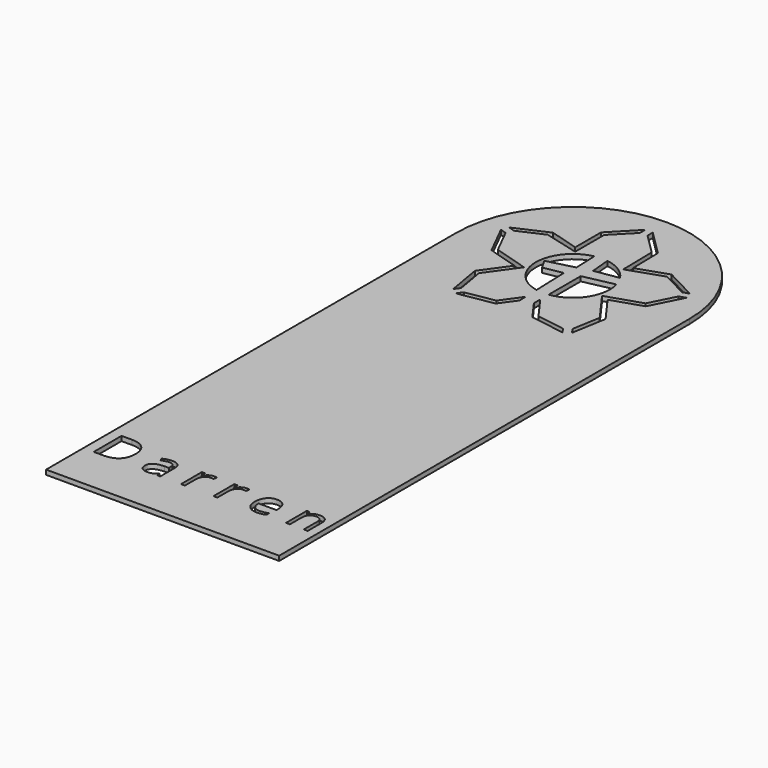
from build123d import *

# Parameters (mm, degrees)
F1_DEPTH = 1


with BuildPart() as f1:
    # F0 (on Top) → F1 (new body)
    with BuildSketch(Plane.XY):
        with BuildLine():
            Line((1.4284653794, -97.4952458707), (1.4284653794, 12.5047541293))
            ThreePointArc((1.4284653794, 12.5047541293), (-23.5715346206, 37.5047541293), (-48.5715346206, 12.5047541293))
            Line((-48.5715346206, 12.5047541293), (-48.5715346206, -97.4952458707))
            Line((-48.5715346206, -97.4952458707), (1.4284653794, -97.4952458707))
        make_face()
        with BuildLine():
            add(Edge.make_bspline(
                [(-41.3622079116, -81.0064125659), (-40.3991172829, -81.9695031946), (-40.3991172829, -83.6983364994)],
                knots=[0, 0, 0, 1, 1, 1], degree=2))
            add(Edge.make_bspline(
                [(-40.3991172829, -83.6983364994), (-40.3991172829, -85.5429690161), (-41.4005358198, -86.5191074434)],
                knots=[0, 0, 0, 1, 1, 1], degree=2))
            add(Edge.make_bspline(
                [(-41.4005358198, -86.5191074434), (-42.4019543567, -87.4952458707), (-44.2824683194, -87.4952458707)],
                knots=[0, 0, 0, 1, 1, 1], degree=2))
            Line((-44.2824683194, -87.4952458707), (-46.3472824362, -87.4952458707))
            Line((-46.3472824362, -87.4952458707), (-46.3472824362, -80.0433219371))
            Line((-46.3472824362, -80.0433219371), (-44.0639176941, -80.0433219371))
            add(Edge.make_bspline(
                [(-44.0639176941, -80.0433219371), (-42.3252985404, -80.0433219371), (-41.3622079116, -81.0064125659)],
                knots=[0, 0, 0, 1, 1, 1], degree=2))
        make_face(mode=Mode.SUBTRACT)
        with BuildLine():
            Line((-32.0893005962, -87.4952458707), (-32.7172259003, -87.4952458707))
            Line((-32.7172259003, -87.4952458707), (-32.8852163064, -86.6993301605))
            Line((-32.8852163064, -86.6993301605), (-32.9259906768, -86.6993301605))
            add(Edge.make_bspline(
                [(-32.9259906768, -86.6993301605), (-33.3435202296, -87.2245040512), (-33.7586033202, -87.4112506677)],
                knots=[0, 0, 0, 1, 1, 1], degree=2))
            add(Edge.make_bspline(
                [(-33.7586033202, -87.4112506677), (-34.1736864109, -87.5979972841), (-34.7967187905, -87.5979972841)],
                knots=[0, 0, 0, 1, 1, 1], degree=2))
            add(Edge.make_bspline(
                [(-34.7967187905, -87.5979972841), (-35.6268849718, -87.5979972841), (-36.0982366936, -87.1690509075)],
                knots=[0, 0, 0, 1, 1, 1], degree=2))
            add(Edge.make_bspline(
                [(-36.0982366936, -87.1690509075), (-36.5695884153, -86.7401045309), (-36.5695884153, -85.9507127201)],
                knots=[0, 0, 0, 1, 1, 1], degree=2))
            add(Edge.make_bspline(
                [(-36.5695884153, -85.9507127201), (-36.5695884153, -84.2593918361), (-33.8638011959, -84.1778430953)],
                knots=[0, 0, 0, 1, 1, 1], degree=2))
            Line((-33.8638011959, -84.1778430953), (-32.9162048279, -84.1468545738))
            Line((-32.9162048279, -84.1468545738), (-32.9162048279, -83.799456938))
            add(Edge.make_bspline(
                [(-32.9162048279, -83.799456938), (-32.9162048279, -83.1421740872), (-33.198363471, -82.8290269226)],
                knots=[0, 0, 0, 1, 1, 1], degree=2))
            add(Edge.make_bspline(
                [(-33.198363471, -82.8290269226), (-33.4805221141, -82.5158797579), (-34.1035544938, -82.5158797579)],
                knots=[0, 0, 0, 1, 1, 1], degree=2))
            add(Edge.make_bspline(
                [(-34.1035544938, -82.5158797579), (-34.801611715, -82.5158797579), (-35.6823381155, -82.9431951597)],
                knots=[0, 0, 0, 1, 1, 1], degree=2))
            Line((-35.6823381155, -82.9431951597), (-35.943294086, -82.2956981578))
            add(Edge.make_bspline(
                [(-35.943294086, -82.2956981578), (-35.5306574576, -82.072254608), (-35.0389185507, -81.9450385724)],
                knots=[0, 0, 0, 1, 1, 1], degree=2))
            add(Edge.make_bspline(
                [(-35.0389185507, -81.9450385724), (-34.5471796437, -81.8178225368), (-34.0513632997, -81.8178225368)],
                knots=[0, 0, 0, 1, 1, 1], degree=2))
            add(Edge.make_bspline(
                [(-34.0513632997, -81.8178225368), (-33.0532067124, -81.8178225368), (-32.5712536543, -82.2606321993)],
                knots=[0, 0, 0, 1, 1, 1], degree=2))
            add(Edge.make_bspline(
                [(-32.5712536543, -82.2606321993), (-32.0893005962, -82.7034418618), (-32.0893005962, -83.6820267513)],
                knots=[0, 0, 0, 1, 1, 1], degree=2))
            Line((-32.0893005962, -83.6820267513), (-32.0893005962, -87.4952458707))
        make_face(mode=Mode.SUBTRACT)
        with BuildLine():
            add(Edge.make_bspline(
                [(-26.0498008532, -82.1024276421), (-25.6110686278, -81.8064057131), (-25.0858947371, -81.8064057131)],
                knots=[0, 0, 0, 1, 1, 1], degree=2))
            add(Edge.make_bspline(
                [(-25.0858947371, -81.8064057131), (-24.7140324791, -81.8064057131), (-24.4188260374, -81.8683827561)],
                knots=[0, 0, 0, 1, 1, 1], degree=2))
            Line((-24.4188260374, -81.8683827561), (-24.5362562241, -82.6528816425))
            add(Edge.make_bspline(
                [(-24.5362562241, -82.6528816425), (-24.8820228851, -82.5762258261), (-25.1478717801, -82.5762258261)],
                knots=[0, 0, 0, 1, 1, 1], degree=2))
            add(Edge.make_bspline(
                [(-25.1478717801, -82.5762258261), (-25.8263573035, -82.5762258261), (-26.3074948741, -83.1266798265)],
                knots=[0, 0, 0, 1, 1, 1], degree=2))
            add(Edge.make_bspline(
                [(-26.3074948741, -83.1266798265), (-26.7886324448, -83.6771338268), (-26.7886324448, -84.4975141592)],
                knots=[0, 0, 0, 1, 1, 1], degree=2))
            Line((-26.7886324448, -84.4975141592), (-26.7886324448, -87.4952458707))
            Line((-26.7886324448, -87.4952458707), (-27.6351083742, -87.4952458707))
            Line((-27.6351083742, -87.4952458707), (-27.6351083742, -81.9091571265))
            Line((-27.6351083742, -81.9091571265), (-26.937051153, -81.9091571265))
            Line((-26.937051153, -81.9091571265), (-26.8391926641, -82.9431951597))
            Line((-26.8391926641, -82.9431951597), (-26.7984182937, -82.9431951597))
            add(Edge.make_bspline(
                [(-26.7984182937, -82.9431951597), (-26.4885330787, -82.3984495712), (-26.0498008532, -82.1024276421)],
                knots=[0, 0, 0, 1, 1, 1], degree=2))
        make_face(mode=Mode.SUBTRACT)
        with BuildLine():
            add(Edge.make_bspline(
                [(-19.0757525407, -82.1024276421), (-18.6370203153, -81.8064057131), (-18.1118464246, -81.8064057131)],
                knots=[0, 0, 0, 1, 1, 1], degree=2))
            add(Edge.make_bspline(
                [(-18.1118464246, -81.8064057131), (-17.7399841666, -81.8064057131), (-17.4447777249, -81.8683827561)],
                knots=[0, 0, 0, 1, 1, 1], degree=2))
            Line((-17.4447777249, -81.8683827561), (-17.5622079116, -82.6528816425))
            add(Edge.make_bspline(
                [(-17.5622079116, -82.6528816425), (-17.9079745726, -82.5762258261), (-18.1738234676, -82.5762258261)],
                knots=[0, 0, 0, 1, 1, 1], degree=2))
            add(Edge.make_bspline(
                [(-18.1738234676, -82.5762258261), (-18.852308991, -82.5762258261), (-19.3334465616, -83.1266798265)],
                knots=[0, 0, 0, 1, 1, 1], degree=2))
            add(Edge.make_bspline(
                [(-19.3334465616, -83.1266798265), (-19.8145841323, -83.6771338268), (-19.8145841323, -84.4975141592)],
                knots=[0, 0, 0, 1, 1, 1], degree=2))
            Line((-19.8145841323, -84.4975141592), (-19.8145841323, -87.4952458707))
            Line((-19.8145841323, -87.4952458707), (-20.6610600617, -87.4952458707))
            Line((-20.6610600617, -87.4952458707), (-20.6610600617, -81.9091571265))
            Line((-20.6610600617, -81.9091571265), (-19.9630028405, -81.9091571265))
            Line((-19.9630028405, -81.9091571265), (-19.8651443516, -82.9431951597))
            Line((-19.8651443516, -82.9431951597), (-19.8243699812, -82.9431951597))
            add(Edge.make_bspline(
                [(-19.8243699812, -82.9431951597), (-19.5144847662, -82.3984495712), (-19.0757525407, -82.1024276421)],
                knots=[0, 0, 0, 1, 1, 1], degree=2))
        make_face(mode=Mode.SUBTRACT)
        with BuildLine():
            add(Edge.make_bspline(
                [(-10.3614540998, -87.5131865936), (-10.7610429296, -87.5979972841), (-11.3269911907, -87.5979972841)],
                knots=[0, 0, 0, 1, 1, 1], degree=2))
            add(Edge.make_bspline(
                [(-11.3269911907, -87.5979972841), (-12.5649010759, -87.5979972841), (-13.2817145075, -86.8428559443)],
                knots=[0, 0, 0, 1, 1, 1], degree=2))
            add(Edge.make_bspline(
                [(-13.2817145075, -86.8428559443), (-13.9985279391, -86.0877146046), (-13.9985279391, -84.7486842808)],
                knots=[0, 0, 0, 1, 1, 1], degree=2))
            add(Edge.make_bspline(
                [(-13.9985279391, -84.7486842808), (-13.9985279391, -83.3966061585), (-13.3330902142, -82.6015059358)],
                knots=[0, 0, 0, 1, 1, 1], degree=2))
            add(Edge.make_bspline(
                [(-13.3330902142, -82.6015059358), (-12.6676524893, -81.8064057131), (-11.545541816, -81.8064057131)],
                knots=[0, 0, 0, 1, 1, 1], degree=2))
            add(Edge.make_bspline(
                [(-11.545541816, -81.8064057131), (-10.4968250095, -81.8064057131), (-9.8852094535, -82.4971235476)],
                knots=[0, 0, 0, 1, 1, 1], degree=2))
            add(Edge.make_bspline(
                [(-9.8852094535, -82.4971235476), (-9.2735938976, -83.1878413821), (-9.2735938976, -84.3197379042)],
                knots=[0, 0, 0, 1, 1, 1], degree=2))
            Line((-9.2735938976, -84.3197379042), (-9.2735938976, -84.8546976438))
            Line((-9.2735938976, -84.8546976438), (-13.1210634881, -84.8546976438))
            add(Edge.make_bspline(
                [(-13.1210634881, -84.8546976438), (-13.0949678911, -85.8381754578), (-12.6236161693, -86.3478550877)],
                knots=[0, 0, 0, 1, 1, 1], degree=2))
            add(Edge.make_bspline(
                [(-12.6236161693, -86.3478550877), (-12.1522644475, -86.8575347177), (-11.2960026692, -86.8575347177)],
                knots=[0, 0, 0, 1, 1, 1], degree=2))
            add(Edge.make_bspline(
                [(-11.2960026692, -86.8575347177), (-10.3940735961, -86.8575347177), (-9.5133471955, -86.4807795352)],
                knots=[0, 0, 0, 1, 1, 1], degree=2))
            Line((-9.5133471955, -86.4807795352), (-9.5133471955, -87.235920875))
            add(Edge.make_bspline(
                [(-9.5133471955, -87.235920875), (-9.9618652699, -87.4283759032), (-10.3614540998, -87.5131865936)],
                knots=[0, 0, 0, 1, 1, 1], degree=2))
        make_face(mode=Mode.SUBTRACT)
        with BuildLine():
            Line((-0.4483891691, -87.4952458707), (-1.2948650986, -87.4952458707))
            Line((-1.2948650986, -87.4952458707), (-1.2948650986, -83.8810056788))
            add(Edge.make_bspline(
                [(-1.2948650986, -83.8810056788), (-1.2948650986, -83.1992582058), (-1.605565801, -82.8624619063)],
                knots=[0, 0, 0, 1, 1, 1], degree=2))
            add(Edge.make_bspline(
                [(-1.605565801, -82.8624619063), (-1.9162665034, -82.5256656068), (-2.5800732534, -82.5256656068)],
                knots=[0, 0, 0, 1, 1, 1], degree=2))
            add(Edge.make_bspline(
                [(-2.5800732534, -82.5256656068), (-3.4559067295, -82.5256656068), (-3.8636504335, -82.9994637908)],
                knots=[0, 0, 0, 1, 1, 1], degree=2))
            add(Edge.make_bspline(
                [(-3.8636504335, -82.9994637908), (-4.2713941374, -83.4732619748), (-4.2713941374, -84.5643841266)],
                knots=[0, 0, 0, 1, 1, 1], degree=2))
            Line((-4.2713941374, -84.5643841266), (-4.2713941374, -87.4952458707))
            Line((-4.2713941374, -87.4952458707), (-5.1178700669, -87.4952458707))
            Line((-5.1178700669, -87.4952458707), (-5.1178700669, -81.9091571265))
            Line((-5.1178700669, -81.9091571265), (-4.4295986946, -81.9091571265))
            Line((-4.4295986946, -81.9091571265), (-4.29259681, -82.6740843151))
            Line((-4.29259681, -82.6740843151), (-4.2518224397, -82.6740843151))
            add(Edge.make_bspline(
                [(-4.2518224397, -82.6740843151), (-3.9908664691, -82.2614476867), (-3.5219612096, -82.0339266999)],
                knots=[0, 0, 0, 1, 1, 1], degree=2))
            add(Edge.make_bspline(
                [(-3.5219612096, -82.0339266999), (-3.05305595, -81.8064057131), (-2.47732184, -81.8064057131)],
                knots=[0, 0, 0, 1, 1, 1], degree=2))
            add(Edge.make_bspline(
                [(-2.47732184, -81.8064057131), (-1.467748429, -81.8064057131), (-0.9580687991, -82.2932516956)],
                knots=[0, 0, 0, 1, 1, 1], degree=2))
            add(Edge.make_bspline(
                [(-0.9580687991, -82.2932516956), (-0.4483891691, -82.7800976781), (-0.4483891691, -83.8516481321)],
                knots=[0, 0, 0, 1, 1, 1], degree=2))
            Line((-0.4483891691, -83.8516481321), (-0.4483891691, -87.4952458707))
        make_face(mode=Mode.SUBTRACT)
        Polygon((-34.1146393561, -3.5552836556), (-27.9691070318, -2.5021913461), (-25.0127399754, 1.6040197864), (-24.9551255256, 0), (-24.9469702633, -0.0161059202), (-27.3967417615, -3.418687131), (-34.9305713318, -4.7096766763), align=None, mode=Mode.SUBTRACT)
        Polygon((-36.467988044, 3.4470248502), (-35.4212190855, -2.6317851929), (-36.2371510612, -3.7861782136), (-37.5244820123, 3.6896265006), (-33.5243582615, 9.2696040129), (-40.0252380366, 11.2502726005), (-43.4422977063, 18.0631549671), (-42.1049959107, 17.6273735439), (-39.3236093223, 12.0818866417), (-31.8994479815, 9.8199153908), align=None, mode=Mode.SUBTRACT)
        with BuildLine():
            Line((-29.4647216797, 11.6258272901), (-25.3998301923, 12.3808365315))
            Line((-25.3998301923, 12.3808365315), (-25.1242259491, 4.7078541275))
            ThreePointArc((-25.1242259491, 4.7078541275), (-31.5214414169, 12.4662582948), (-25.1996612252, 20.2862516561))
            Line((-25.1996612252, 20.2862516561), (-24.9974597245, 15.254214406))
            Line((-24.9974597245, 15.254214406), (-30.6977666914, 13.7786027044))
            Line((-30.6977666914, 13.7786027044), (-29.4647216797, 11.6258272901))
        make_face(mode=Mode.SUBTRACT)
        Polygon((-28.7392211321, 27.3576490228), (-28.7392211321, 19.5657396213), (-36.1623332402, 21.5265380248), (-41.5232876548, 19.1206226394), (-42.8605894504, 19.5564040626), (-35.9347263225, 22.6646268468), (-29.7392211321, 20.8407253825), (-29.7392211321, 27.7643422136), (-24.524, 33.1155836874), (-24.524, 31.6828090826), align=None, mode=Mode.SUBTRACT)
        Polygon((-18.9432967454, -2.5021913461), (-12.902453524, -3.4784627608), (-12.0855563588, -4.6234579723), (-19.5114980328, -3.4233383337), (-22.4832184613, 0.6903432762), (-22.4832184613, 2.3980377345), align=None, mode=Mode.SUBTRACT)
        with BuildLine():
            Line((-22.4832184613, 13.246525079), (-15.9125593534, 14.6360912346))
            ThreePointArc((-15.9125593534, 14.6360912346), (-16.9261415986, 8.1411258703), (-22.4832184613, 4.6295990237))
            Line((-22.4832184613, 4.6295990237), (-22.4832184613, 13.246525079))
        make_face(mode=Mode.SUBTRACT)
        with BuildLine():
            Line((-22.0680851489, 16.0352941602), (-22.4516364952, 20.3754801561))
            ThreePointArc((-22.4516364952, 20.3754801561), (-19.3123558546, 19.2175699498), (-16.9275561235, 16.8705358154))
            Line((-16.9275561235, 16.8705358154), (-22.0680851489, 16.0352941602))
        make_face(mode=Mode.SUBTRACT)
        Polygon((-18.586345017, 27.4138655514), (-22.924, 31.7119584513), (-22.924, 33.1197375372), (-17.5934200032, 27.8377757107), (-17.4768023876, 20.9907870217), (-10.9566895333, 23.2121635497), (-4.2333611484, 19.7078791733), (-5.5711774969, 19.2774858551), (-11.0393390059, 22.1275612712), (-18.4532878419, 19.6016583778), align=None, mode=Mode.SUBTRACT)
        Polygon((-7.8267613426, 12.3198563233), (-5.081169753, 17.7543665522), (-3.7433534044, 18.1847598704), (-7.1211127378, 11.4989630033), (-13.6084618907, 9.3699249582), (-9.5063190227, 3.6914265653), (-10.7830683479, -3.6941975237), (-11.599965513, -2.5492023123), (-10.563400574, 3.4470248502), (-15.2202782446, 9.8934293806), align=None, mode=Mode.SUBTRACT)
    extrude(amount=F1_DEPTH)


solid = f1.part
